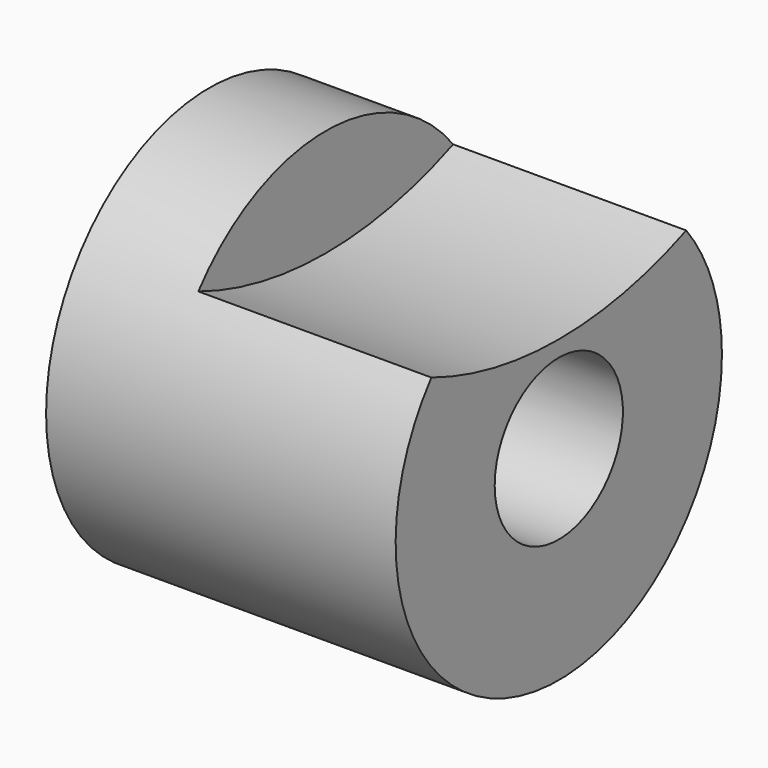
from build123d import *

# Parameters (mm, degrees)
F0_R           = 7
F1_DEPTH       = 12
F2_D           = 5.5
F2_CBORE_D     = 9
F2_CBORE_DEPTH = 3
F4_DEPTH       = 8


with BuildPart() as f1:
    # F0 (on Right) → F1 (new body)
    with BuildSketch(Plane.YZ):
        Circle(F0_R)
    extrude(amount=F1_DEPTH)

    # F2 (through all)
    with Locations(Plane(origin=(0, 0, 0), x_dir=(0, 1, 0), z_dir=(-1, 0, 0))):
        with Locations((0, 0)):
            CounterBoreHole(F2_D / 2, F2_CBORE_D / 2, F2_CBORE_DEPTH)

    # F3 (on face) → F4 (cut)
    with BuildSketch(Plane.YZ.offset(12)):
        with BuildLine():
            ThreePointArc((5.467969, 4.370506), (0, 7), (-5.467969, 4.370506))
            ThreePointArc((-5.467969, 4.370506), (0, 3.3), (5.467969, 4.370506))
        make_face()
    extrude(amount=-F4_DEPTH, mode=Mode.SUBTRACT)


solid = f1.part
